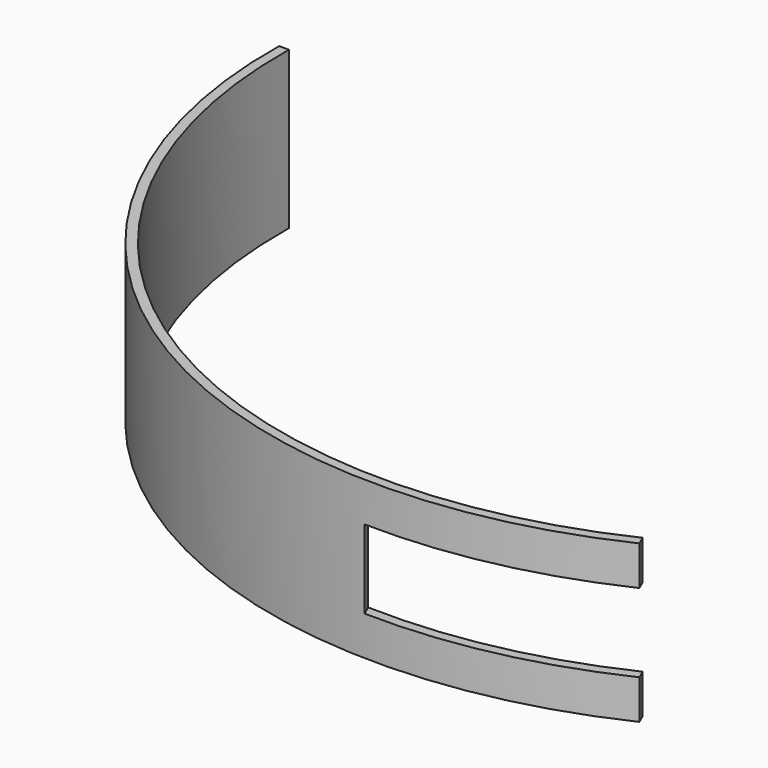
from build123d import *

# Parameters (mm, degrees)
F1_DEPTH = 101.6
F3_DEPTH = 152.4
F4_W     = 143.211212
F4_H     = 118.549919
F5_DEPTH = 25.4


with BuildPart() as f1:
    # F0 (on Top) → F1 (new body)
    with BuildSketch(Plane.XY):
        with BuildLine():
            ThreePointArc((471.423321, -25.710636), (139.580084, 2.415757), (0.027949, 304.8))
            Line((0.027949, 304.8), (-6.35, 304.8))
            ThreePointArc((-6.35, 304.8), (136.074708, -2.881746), (473.906585, -31.560616))
            Line((473.906585, -31.560616), (471.423321, -25.710636))
        make_face()
    extrude(amount=F1_DEPTH)

    # F2 (on face) → F3 (cut)
    with BuildSketch(Plane(origin=(390.198528, 165.635729, 0), x_dir=(-0.390744, 0.9205, 0), z_dir=(0.9205, 0.390744, 0))):
        Polygon((-139.049853, 76.2), (-316.849853, 76.2), (-316.849853, 25.4), (-214.227537, 25.4), (-139.049853, 25.4), align=None)
    extrude(amount=-F3_DEPTH, mode=Mode.SUBTRACT)

    # F4 (on face) → F5 (cut)
    with BuildSketch(Plane(origin=(0, 304.8, 0), x_dir=(-1, 0, 0), z_dir=(0, 1, 0))):
        with Locations((-15.944215, 54.147762)):
            Rectangle(F4_W, F4_H)
    extrude(amount=-F5_DEPTH, mode=Mode.SUBTRACT)


solid = f1.part
